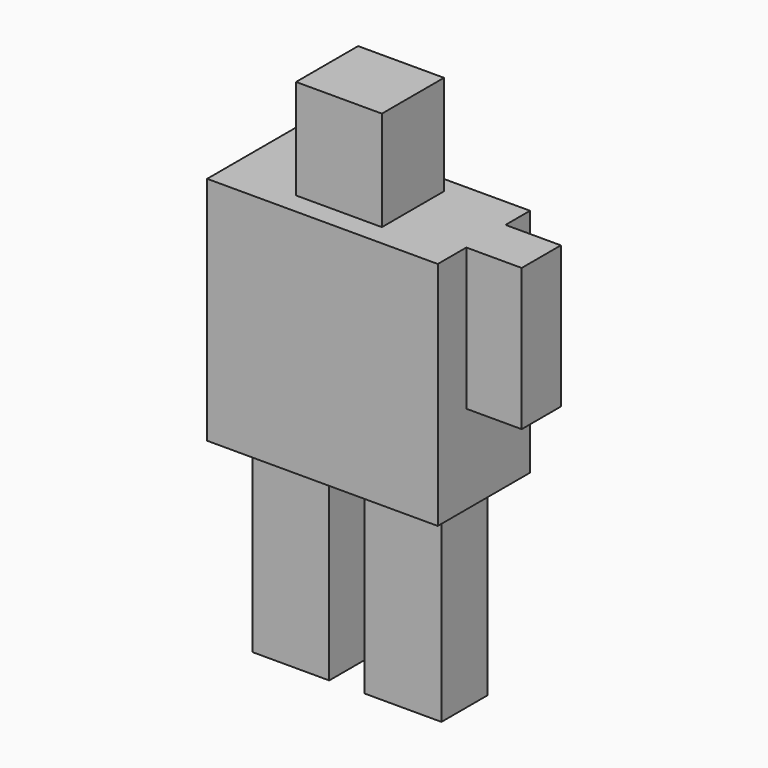
from build123d import *

# Parameters (mm, degrees)
F0_W     = 50.8
F0_H     = 38.1
F1_DEPTH = 127
F2_W     = 152.4
F2_H     = 76.2
F2_W_2   = 50.8
F2_H_2   = 38.1
F3_DEPTH = 152.4
F4_W     = 56.7341633141
F4_H     = 51.2951239944
F5_DEPTH = 66.04
F6_W     = 32.3613445262
F6_H     = 93.7973558903
F7_DEPTH = 36.576


with BuildPart() as f1:
    # F0 (on Top) → F1 (new body)
    with BuildSketch(Plane.XY):
        with Locations((-37.0803937972, -0.0342295945)):
            Rectangle(F0_W, F0_H)
    extrude(amount=F1_DEPTH)


with BuildPart() as f1b:
    # F0 (on Top) → F1, piece 2 (new body)
    with BuildSketch(Plane.XY):
        with Locations((37.0803937972, -0.0342295945)):
            Rectangle(F0_W, F0_H)
    extrude(amount=F1_DEPTH)


with BuildPart() as f3:
    # F2 (on face) → F3 (new body)
    with BuildSketch(Plane.XY.offset(127)):
        with Locations((0.3965346944, -1.672820802)):
            Rectangle(F2_W, F2_H)
        with Locations((-37.0803937972, -0.0342295945)):
            Rectangle(F2_W_2, F2_H_2, mode=Mode.SUBTRACT)
        with Locations((-37.0803937972, -0.0342295945)):
            Rectangle(F2_W_2, F2_H_2)
    extrude(amount=F3_DEPTH)

    # F4 (on face) → F5 (join)
    with BuildSketch(Plane.XY.offset(279.4)):
        Rectangle(F4_W, F4_H)
        Rectangle(F4_W, F4_H)
    extrude(amount=F5_DEPTH)

    # F6 (on face) → F7 (join)
    with BuildSketch(Plane.YZ.offset(76.5965346944)):
        with Locations((0, 232.5013220549)):
            Rectangle(F6_W, F6_H)
    extrude(amount=F7_DEPTH)


solid = Compound([f1.part, f1b.part, f3.part])
